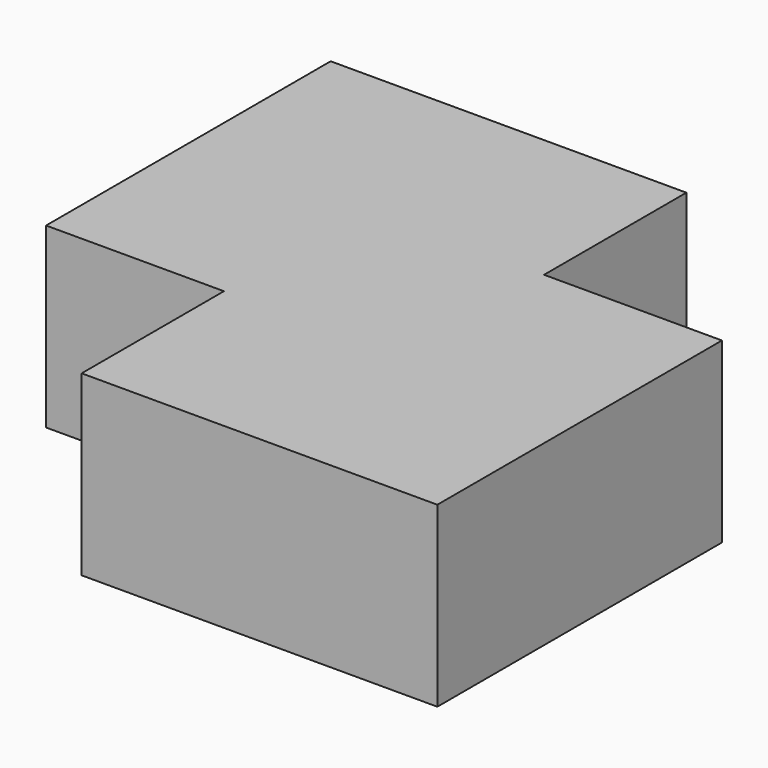
from build123d import *

# Parameters (mm, degrees)
F1_DEPTH = 9.5


with BuildPart() as f1:
    # F0 (on Top) → F1 (new body, symmetric)
    with BuildSketch(Plane.XY):
        Polygon((9.5, 28.5), (-28.5, 28.5), (-28.5, -9.5), (-9.5, -9.5), (-9.5, -28.5), (28.5, -28.5), (28.5, 9.5), (9.5, 9.5), align=None)
    extrude(amount=F1_DEPTH, both=True)


solid = f1.part
